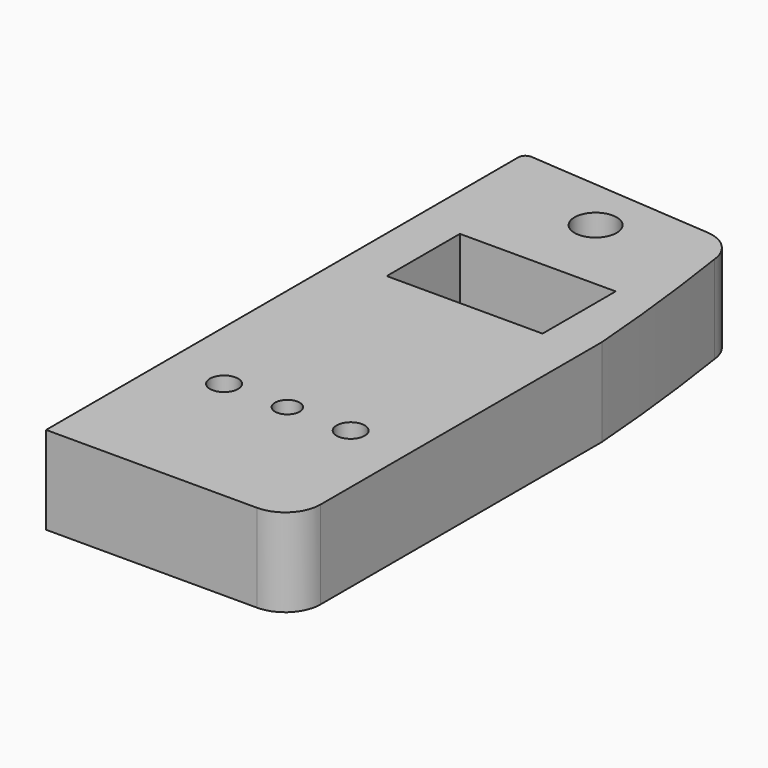
from build123d import *

# Parameters (mm, degrees)
F0_R     = 4
F0_R_2   = 3.5
F0_W     = 44.3
F0_H     = 26
F0_R_3   = 6
F1_DEPTH = 25


with BuildPart() as f1:
    # F0 (on Top) → F1 (new body)
    with BuildSketch(Plane.XY):
        with BuildLine():
            Line((-42.094521, 96.417142), (-42.094521, -71.426986))
            Line((-42.094521, -71.426986), (17.905479, -71.426986))
            ThreePointArc((17.905479, -71.426986), (24.976547, -68.498054), (27.905479, -61.426986))
            Line((27.905479, -61.426986), (27.905479, 38.573014))
            ThreePointArc((27.905479, 38.573014), (25.666989, 62.062297), (22.504614, 85.445125))
            ThreePointArc((22.504614, 85.445125), (19.534764, 91.601113), (13.304371, 94.411523))
            Line((13.304371, 94.411523), (-39.944706, 98.411523))
            ThreePointArc((-39.944706, 98.411523), (-41.454736, 97.883367), (-42.094521, 96.417142))
        make_face()
        with Locations((-25.094521, -29.426986)):
            Circle(F0_R, mode=Mode.SUBTRACT)
        with Locations((-7.094521, -29.426986)):
            Circle(F0_R_2, mode=Mode.SUBTRACT)
        with Locations((10.905479, -29.426986)):
            Circle(F0_R, mode=Mode.SUBTRACT)
        with Locations((-7.094521, 46.573014)):
            Rectangle(F0_W, F0_H, mode=Mode.SUBTRACT)
        with Locations((-8.343554, 81.678831)):
            Circle(F0_R_3, mode=Mode.SUBTRACT)
    extrude(amount=F1_DEPTH)


solid = f1.part
